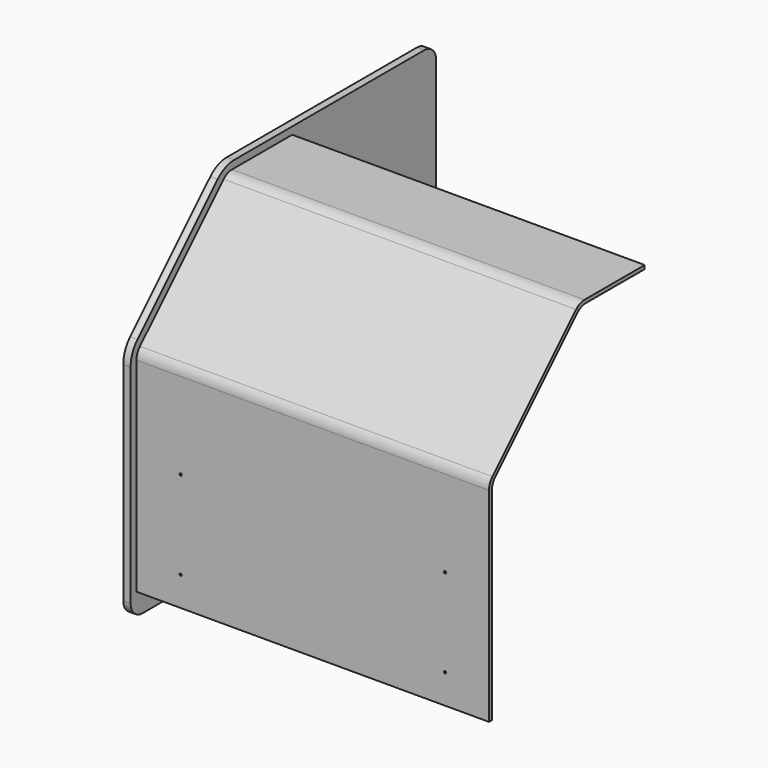
from build123d import *

# Parameters (mm, degrees)
F1_DEPTH = 12.7
F3_DEPTH = 609.6
F4_R     = 1.9558
F5_DEPTH = 647.701


with BuildPart() as f1:
    # F0 (on Right) → F1 (new body)
    with BuildSketch(Plane.YZ):
        with BuildLine():
            ThreePointArc((330.2, 279.4), (322.760512, 297.360512), (304.8, 304.8))
            Line((304.8, 304.8), (-105.957951, 304.8))
            ThreePointArc((-105.957951, 304.8), (-125.398269, 300.93308), (-141.878976, 289.921024))
            Line((-141.878976, 289.921024), (-315.321024, 116.478976))
            ThreePointArc((-315.321024, 116.478976), (-326.33308, 99.998269), (-330.2, 80.557951))
            Line((-330.2, 80.557951), (-330.2, -279.4))
            ThreePointArc((-330.2, -279.4), (-322.760512, -297.360512), (-304.8, -304.8))
            Line((-304.8, -304.8), (304.8, -304.8))
            ThreePointArc((304.8, -304.8), (322.760512, -297.360512), (330.2, -279.4))
            Line((330.2, -279.4), (330.2, 279.4))
        make_face()
    extrude(amount=F1_DEPTH)


with BuildPart() as f3:
    # F2 (on face) → F3 (new body)
    with BuildSketch(Plane.YZ.offset(12.7)):
        with BuildLine():
            ThreePointArc((-310.060512, 103.778976), (-315.56654, 95.538622), (-317.5, 85.818463))
            Line((-317.5, 85.818463), (-317.5, -266.7))
            Line((-317.5, -266.7), (-311.15, -266.7))
            Line((-311.15, -266.7), (-311.15, 83.188207))
            ThreePointArc((-311.15, 83.188207), (-309.21654, 92.908366), (-303.710512, 101.148719))
            Line((-303.710512, 101.148719), (-126.548719, 278.310512))
            ThreePointArc((-126.548719, 278.310512), (-118.308366, 283.81654), (-108.588207, 285.75))
            Line((-108.588207, 285.75), (19.05, 285.75))
            Line((19.05, 285.75), (19.05, 292.1))
            Line((19.05, 292.1), (-111.218463, 292.1))
            ThreePointArc((-111.218463, 292.1), (-120.938622, 290.16654), (-129.178976, 284.660512))
            Line((-129.178976, 284.660512), (-310.060512, 103.778976))
        make_face()
    extrude(amount=F3_DEPTH)

    # F4 (on face) → F5 (cut, through all)
    with BuildSketch(Plane.XZ.offset(317.5)):
        with Locations((546.1, -215.9)):
            Circle(F4_R)
        with Locations((546.1, -63.5)):
            Circle(F4_R)
        with Locations((88.9, -63.5)):
            Circle(F4_R)
        with Locations((88.9, -215.9)):
            Circle(F4_R)
    extrude(amount=-F5_DEPTH, mode=Mode.SUBTRACT)


solid = Compound([f1.part, f3.part])
